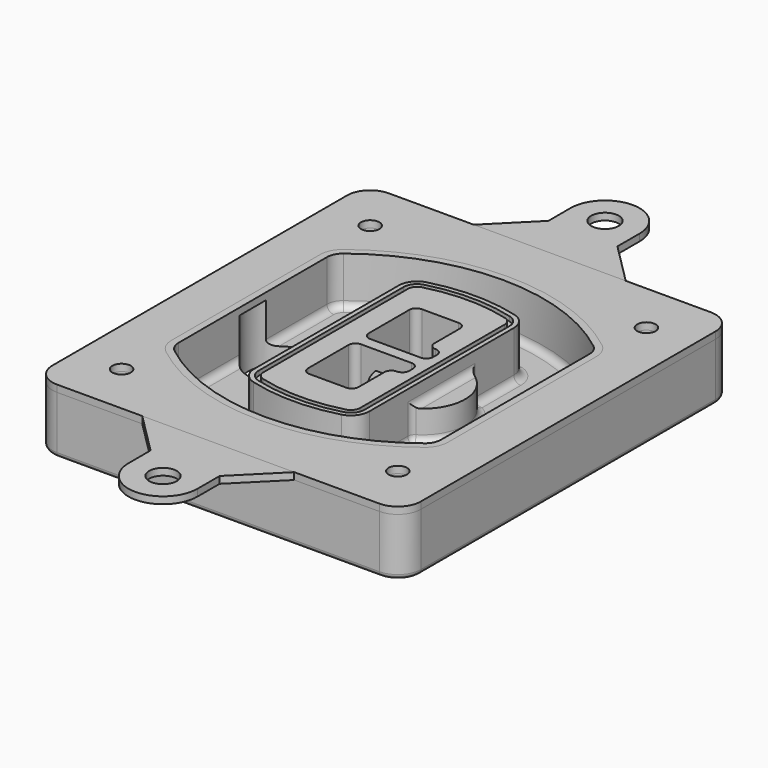
from build123d import *

# Parameters (mm, degrees)
F0_R      = 4
F1_DEPTH  = 25
F2_DEPTH  = 3
F3_DEPTH  = 18
F5_DEPTH  = 21
F6_DEPTH  = 2
F8_DEPTH  = 20
F9_DEPTH  = 16
F10_DEPTH = 25
F7_R      = 6
F7_R_2    = 4
F11_DEPTH = 6
F13_DEPTH = 9
F14_R     = 3
F15_R     = 2
F17_R     = 6
F18_DEPTH = 3
F16_R     = 4


with BuildPart() as f1:
    # F0 (on Top) → F1 (new body)
    with BuildSketch(Plane.XY):
        with BuildLine():
            ThreePointArc((-80, -80), (-77.0710678119, -87.0710678119), (-70, -90))
            Line((-70, -90), (70, -90))
            ThreePointArc((70, -90), (77.0710678119, -87.0710678119), (80, -80))
            Line((80, -80), (80, 80))
            ThreePointArc((80, 80), (77.0710678119, 87.0710678119), (70, 90))
            Line((70, 90), (-70, 90))
            ThreePointArc((-70, 90), (-77.0710678119, 87.0710678119), (-80, 80))
            Line((-80, 80), (-80, -80))
        make_face()
        with Locations((-60, -67.5)):
            Circle(F0_R, mode=Mode.SUBTRACT)
        with Locations((60, -67.5)):
            Circle(F0_R, mode=Mode.SUBTRACT)
        with Locations((-60, 67.5)):
            Circle(F0_R, mode=Mode.SUBTRACT)
        with BuildLine():
            ThreePointArc((-64, 40.2934422872), (-62.5820384798, 46.4328484224), (-58.6153846154, 51.3286200352))
            ThreePointArc((-58.6153846154, 51.3286200352), (0, 71.5), (58.6153846154, 51.3286200352))
            ThreePointArc((58.6153846154, 51.3286200352), (62.5820384798, 46.4328484224), (64, 40.2934422872))
            Line((64, 40.2934422872), (64, -40.2934422872))
            ThreePointArc((64, -40.2934422872), (62.5820384798, -46.4328484224), (58.6153846154, -51.3286200352))
            ThreePointArc((58.6153846154, -51.3286200352), (0, -71.5), (-58.6153846154, -51.3286200352))
            ThreePointArc((-58.6153846154, -51.3286200352), (-62.5820384798, -46.4328484224), (-64, -40.2934422872))
            Line((-64, -40.2934422872), (-64, 40.2934422872))
        make_face(mode=Mode.SUBTRACT)
        with Locations((60, 67.5)):
            Circle(F0_R, mode=Mode.SUBTRACT)
        with BuildLine():
            ThreePointArc((58.6153846154, 51.3286200352), (0, 71.5), (-58.6153846154, 51.3286200352))
            ThreePointArc((-58.6153846154, 51.3286200352), (-62.5820384798, 46.4328484224), (-64, 40.2934422872))
            Line((-64, 40.2934422872), (-64, -40.2934422872))
            ThreePointArc((-64, -40.2934422872), (-62.5820384798, -46.4328484224), (-58.6153846154, -51.3286200352))
            ThreePointArc((-58.6153846154, -51.3286200352), (0, -71.5), (58.6153846154, -51.3286200352))
            ThreePointArc((58.6153846154, -51.3286200352), (62.5820384798, -46.4328484224), (64, -40.2934422872))
            Line((64, -40.2934422872), (64, 40.2934422872))
            ThreePointArc((64, 40.2934422872), (62.5820384798, 46.4328484224), (58.6153846154, 51.3286200352))
        make_face()
        with BuildLine():
            Line((-60, -40.2934422872), (-60, 40.2934422872))
            ThreePointArc((-60, 40.2934422872), (-58.9871703427, 44.6787323838), (-56.1538461538, 48.1757121072))
            ThreePointArc((-56.1538461538, 48.1757121072), (0, 67.5), (56.1538461538, 48.1757121072))
            ThreePointArc((56.1538461538, 48.1757121072), (58.9871703427, 44.6787323838), (60, 40.2934422872))
            Line((60, 40.2934422872), (60, -40.2934422872))
            ThreePointArc((60, -40.2934422872), (58.9871703427, -44.6787323838), (56.1538461538, -48.1757121072))
            ThreePointArc((56.1538461538, -48.1757121072), (0, -67.5), (-56.1538461538, -48.1757121072))
            ThreePointArc((-56.1538461538, -48.1757121072), (-58.9871703427, -44.6787323838), (-60, -40.2934422872))
        make_face(mode=Mode.SUBTRACT)
        with BuildLine():
            ThreePointArc((-56.1538461538, 48.1757121072), (-58.9871703427, 44.6787323838), (-60, 40.2934422872))
            Line((-60, 40.2934422872), (-60, -40.2934422872))
            ThreePointArc((-60, -40.2934422872), (-58.9871703427, -44.6787323838), (-56.1538461538, -48.1757121072))
            ThreePointArc((-56.1538461538, -48.1757121072), (0, -67.5), (56.1538461538, -48.1757121072))
            ThreePointArc((56.1538461538, -48.1757121072), (58.9871703427, -44.6787323838), (60, -40.2934422872))
            Line((60, -40.2934422872), (60, 40.2934422872))
            ThreePointArc((60, 40.2934422872), (58.9871703427, 44.6787323838), (56.1538461538, 48.1757121072))
            ThreePointArc((56.1538461538, 48.1757121072), (0, 67.5), (-56.1538461538, 48.1757121072))
        make_face()
        with BuildLine():
            ThreePointArc((54.3076923077, 45.8110311612), (56.2910192399, 43.3631453548), (57, 40.2934422872))
            Line((57, 40.2934422872), (57, -40.2934422872))
            ThreePointArc((57, -40.2934422872), (56.2910192399, -43.3631453548), (54.3076923077, -45.8110311612))
            ThreePointArc((54.3076923077, -45.8110311612), (0, -64.5), (-54.3076923077, -45.8110311612))
            ThreePointArc((-54.3076923077, -45.8110311612), (-56.2910192399, -43.3631453548), (-57, -40.2934422872))
            Line((-57, -40.2934422872), (-57, 40.2934422872))
            ThreePointArc((-57, 40.2934422872), (-56.2910192399, 43.3631453548), (-54.3076923077, 45.8110311612))
            ThreePointArc((-54.3076923077, 45.8110311612), (0, 64.5), (54.3076923077, 45.8110311612))
        make_face(mode=Mode.SUBTRACT)
        with BuildLine():
            Line((57, -40.2934422872), (57, 40.2934422872))
            ThreePointArc((57, 40.2934422872), (56.2910192399, 43.3631453548), (54.3076923077, 45.8110311612))
            ThreePointArc((54.3076923077, 45.8110311612), (0, 64.5), (-54.3076923077, 45.8110311612))
            ThreePointArc((-54.3076923077, 45.8110311612), (-56.2910192399, 43.3631453548), (-57, 40.2934422872))
            Line((-57, 40.2934422872), (-57, -40.2934422872))
            ThreePointArc((-57, -40.2934422872), (-56.2910192399, -43.3631453548), (-54.3076923077, -45.8110311612))
            ThreePointArc((-54.3076923077, -45.8110311612), (0, -64.5), (54.3076923077, -45.8110311612))
            ThreePointArc((54.3076923077, -45.8110311612), (56.2910192399, -43.3631453548), (57, -40.2934422872))
        make_face()
    extrude(amount=-F1_DEPTH)

    # F0 (on Top) → F2 (join)
    with BuildSketch(Plane.XY):
        with BuildLine():
            ThreePointArc((-56.1538461538, 48.1757121072), (-58.9871703427, 44.6787323838), (-60, 40.2934422872))
            Line((-60, 40.2934422872), (-60, -40.2934422872))
            ThreePointArc((-60, -40.2934422872), (-58.9871703427, -44.6787323838), (-56.1538461538, -48.1757121072))
            ThreePointArc((-56.1538461538, -48.1757121072), (0, -67.5), (56.1538461538, -48.1757121072))
            ThreePointArc((56.1538461538, -48.1757121072), (58.9871703427, -44.6787323838), (60, -40.2934422872))
            Line((60, -40.2934422872), (60, 40.2934422872))
            ThreePointArc((60, 40.2934422872), (58.9871703427, 44.6787323838), (56.1538461538, 48.1757121072))
            ThreePointArc((56.1538461538, 48.1757121072), (0, 67.5), (-56.1538461538, 48.1757121072))
        make_face()
        with BuildLine():
            ThreePointArc((54.3076923077, 45.8110311612), (56.2910192399, 43.3631453548), (57, 40.2934422872))
            Line((57, 40.2934422872), (57, -40.2934422872))
            ThreePointArc((57, -40.2934422872), (56.2910192399, -43.3631453548), (54.3076923077, -45.8110311612))
            ThreePointArc((54.3076923077, -45.8110311612), (0, -64.5), (-54.3076923077, -45.8110311612))
            ThreePointArc((-54.3076923077, -45.8110311612), (-56.2910192399, -43.3631453548), (-57, -40.2934422872))
            Line((-57, -40.2934422872), (-57, 40.2934422872))
            ThreePointArc((-57, 40.2934422872), (-56.2910192399, 43.3631453548), (-54.3076923077, 45.8110311612))
            ThreePointArc((-54.3076923077, 45.8110311612), (0, 64.5), (54.3076923077, 45.8110311612))
        make_face(mode=Mode.SUBTRACT)
    extrude(amount=F2_DEPTH)

    # F0 (on Top) → F3 (cut)
    with BuildSketch(Plane.XY):
        with BuildLine():
            Line((57, -40.2934422872), (57, 40.2934422872))
            ThreePointArc((57, 40.2934422872), (56.2910192399, 43.3631453548), (54.3076923077, 45.8110311612))
            ThreePointArc((54.3076923077, 45.8110311612), (0, 64.5), (-54.3076923077, 45.8110311612))
            ThreePointArc((-54.3076923077, 45.8110311612), (-56.2910192399, 43.3631453548), (-57, 40.2934422872))
            Line((-57, 40.2934422872), (-57, -40.2934422872))
            ThreePointArc((-57, -40.2934422872), (-56.2910192399, -43.3631453548), (-54.3076923077, -45.8110311612))
            ThreePointArc((-54.3076923077, -45.8110311612), (0, -64.5), (54.3076923077, -45.8110311612))
            ThreePointArc((54.3076923077, -45.8110311612), (56.2910192399, -43.3631453548), (57, -40.2934422872))
        make_face()
    extrude(amount=-F3_DEPTH, mode=Mode.SUBTRACT)

    # F4 (on face) → F5 (join, through all)
    with BuildSketch(Plane.XY.offset(3)):
        with BuildLine():
            ThreePointArc((-25, -39.2465276821), (-23.3511545998, -44.1109737193), (-19.0842911877, -46.9702398883))
            ThreePointArc((-19.0842911877, -46.9702398883), (0, -49.5), (19.0842911877, -46.9702398883))
            ThreePointArc((19.0842911877, -46.9702398883), (23.3511545998, -44.1109737193), (25, -39.2465276821))
            Line((25, -39.2465276821), (25, 39.2465276821))
            ThreePointArc((25, 39.2465276821), (23.3511545998, 44.1109737193), (19.0842911877, 46.9702398883))
            ThreePointArc((19.0842911877, 46.9702398883), (0, 49.5), (-19.0842911877, 46.9702398883))
            ThreePointArc((-19.0842911877, 46.9702398883), (-23.3511545998, 44.1109737193), (-25, 39.2465276821))
            Line((-25, 39.2465276821), (-25, -39.2465276821))
        make_face()
        with BuildLine():
            ThreePointArc((18.5632183908, 45.0393118368), (21.7633659499, 42.89486221), (23, 39.2465276821))
            Line((23, 39.2465276821), (23, -39.2465276821))
            ThreePointArc((23, -39.2465276821), (21.7633659499, -42.89486221), (18.5632183908, -45.0393118368))
            ThreePointArc((18.5632183908, -45.0393118368), (0, -47.5), (-18.5632183908, -45.0393118368))
            ThreePointArc((-18.5632183908, -45.0393118368), (-21.7633659499, -42.89486221), (-23, -39.2465276821))
            Line((-23, -39.2465276821), (-23, 39.2465276821))
            ThreePointArc((-23, 39.2465276821), (-21.7633659499, 42.89486221), (-18.5632183908, 45.0393118368))
            ThreePointArc((-18.5632183908, 45.0393118368), (0, 47.5), (18.5632183908, 45.0393118368))
        make_face(mode=Mode.SUBTRACT)
        with BuildLine():
            Line((23, -39.2465276821), (23, 39.2465276821))
            ThreePointArc((23, 39.2465276821), (21.7633659499, 42.89486221), (18.5632183908, 45.0393118368))
            ThreePointArc((18.5632183908, 45.0393118368), (0, 47.5), (-18.5632183908, 45.0393118368))
            ThreePointArc((-18.5632183908, 45.0393118368), (-21.7633659499, 42.89486221), (-23, 39.2465276821))
            Line((-23, 39.2465276821), (-23, -39.2465276821))
            ThreePointArc((-23, -39.2465276821), (-21.7633659499, -42.89486221), (-18.5632183908, -45.0393118368))
            ThreePointArc((-18.5632183908, -45.0393118368), (0, -47.5), (18.5632183908, -45.0393118368))
            ThreePointArc((18.5632183908, -45.0393118368), (21.7633659499, -42.89486221), (23, -39.2465276821))
        make_face()
        with BuildLine():
            ThreePointArc((18.0421455939, 43.1083837852), (20.1755772999, 41.6787507007), (21, 39.2465276821))
            Line((21, 39.2465276821), (21, -39.2465276821))
            ThreePointArc((21, -39.2465276821), (20.1755772999, -41.6787507007), (18.0421455939, -43.1083837852))
            ThreePointArc((18.0421455939, -43.1083837852), (0, -45.5), (-18.0421455939, -43.1083837852))
            ThreePointArc((-18.0421455939, -43.1083837852), (-20.1755772999, -41.6787507007), (-21, -39.2465276821))
            Line((-21, -39.2465276821), (-21, 39.2465276821))
            ThreePointArc((-21, 39.2465276821), (-20.1755772999, 41.6787507007), (-18.0421455939, 43.1083837852))
            ThreePointArc((-18.0421455939, 43.1083837852), (0, 45.5), (18.0421455939, 43.1083837852))
        make_face(mode=Mode.SUBTRACT)
        with BuildLine():
            Line((21, -39.2465276821), (21, 39.2465276821))
            ThreePointArc((21, 39.2465276821), (20.1755772999, 41.6787507007), (18.0421455939, 43.1083837852))
            ThreePointArc((18.0421455939, 43.1083837852), (0, 45.5), (-18.0421455939, 43.1083837852))
            ThreePointArc((-18.0421455939, 43.1083837852), (-20.1755772999, 41.6787507007), (-21, 39.2465276821))
            Line((-21, 39.2465276821), (-21, -39.2465276821))
            ThreePointArc((-21, -39.2465276821), (-20.1755772999, -41.6787507007), (-18.0421455939, -43.1083837852))
            ThreePointArc((-18.0421455939, -43.1083837852), (0, -45.5), (18.0421455939, -43.1083837852))
            ThreePointArc((18.0421455939, -43.1083837852), (20.1755772999, -41.6787507007), (21, -39.2465276821))
        make_face()
        with BuildLine():
            Line((-8, -2.5), (14, -2.5))
            ThreePointArc((14, -2.5), (16.1213203436, -3.3786796564), (17, -5.5))
            Line((17, -5.5), (17, -7.5))
            ThreePointArc((17, -7.5), (16.1213203436, -9.6213203436), (14, -10.5))
            ThreePointArc((14, -10.5), (11.8786796564, -11.3786796564), (11, -13.5))
            Line((11, -13.5), (11, -27.5))
            ThreePointArc((11, -27.5), (10.1213203436, -29.6213203436), (8, -30.5))
            Line((8, -30.5), (-8, -30.5))
            ThreePointArc((-8, -30.5), (-10.1213203436, -29.6213203436), (-11, -27.5))
            Line((-11, -27.5), (-11, -5.5))
            ThreePointArc((-11, -5.5), (-10.1213203436, -3.3786796564), (-8, -2.5))
        make_face(mode=Mode.SUBTRACT)
        with BuildLine():
            ThreePointArc((-8, 2.5), (-10.1213203436, 3.3786796564), (-11, 5.5))
            Line((-11, 5.5), (-11, 27.5))
            ThreePointArc((-11, 27.5), (-10.1213203436, 29.6213203436), (-8, 30.5))
            Line((-8, 30.5), (8, 30.5))
            ThreePointArc((8, 30.5), (10.1213203436, 29.6213203436), (11, 27.5))
            Line((11, 27.5), (11, 13.5))
            ThreePointArc((11, 13.5), (11.8786796564, 11.3786796564), (14, 10.5))
            ThreePointArc((14, 10.5), (16.1213203436, 9.6213203436), (17, 7.5))
            Line((17, 7.5), (17, 5.5))
            ThreePointArc((17, 5.5), (16.1213203436, 3.3786796564), (14, 2.5))
            Line((14, 2.5), (-8, 2.5))
        make_face(mode=Mode.SUBTRACT)
    extrude(amount=-F5_DEPTH)

    # F4 (on face) → F6 (cut)
    with BuildSketch(Plane.XY.offset(3)):
        with BuildLine():
            Line((23, -39.2465276821), (23, 39.2465276821))
            ThreePointArc((23, 39.2465276821), (21.7633659499, 42.89486221), (18.5632183908, 45.0393118368))
            ThreePointArc((18.5632183908, 45.0393118368), (0, 47.5), (-18.5632183908, 45.0393118368))
            ThreePointArc((-18.5632183908, 45.0393118368), (-21.7633659499, 42.89486221), (-23, 39.2465276821))
            Line((-23, 39.2465276821), (-23, -39.2465276821))
            ThreePointArc((-23, -39.2465276821), (-21.7633659499, -42.89486221), (-18.5632183908, -45.0393118368))
            ThreePointArc((-18.5632183908, -45.0393118368), (0, -47.5), (18.5632183908, -45.0393118368))
            ThreePointArc((18.5632183908, -45.0393118368), (21.7633659499, -42.89486221), (23, -39.2465276821))
        make_face()
        with BuildLine():
            ThreePointArc((18.0421455939, 43.1083837852), (20.1755772999, 41.6787507007), (21, 39.2465276821))
            Line((21, 39.2465276821), (21, -39.2465276821))
            ThreePointArc((21, -39.2465276821), (20.1755772999, -41.6787507007), (18.0421455939, -43.1083837852))
            ThreePointArc((18.0421455939, -43.1083837852), (0, -45.5), (-18.0421455939, -43.1083837852))
            ThreePointArc((-18.0421455939, -43.1083837852), (-20.1755772999, -41.6787507007), (-21, -39.2465276821))
            Line((-21, -39.2465276821), (-21, 39.2465276821))
            ThreePointArc((-21, 39.2465276821), (-20.1755772999, 41.6787507007), (-18.0421455939, 43.1083837852))
            ThreePointArc((-18.0421455939, 43.1083837852), (0, 45.5), (18.0421455939, 43.1083837852))
        make_face(mode=Mode.SUBTRACT)
    extrude(amount=-F6_DEPTH, mode=Mode.SUBTRACT)

    # F7 (on face) → F8 (join)
    with BuildSketch(Plane(origin=(0, 0, -25), x_dir=(1, 0, 0), z_dir=(0, 0, -1))):
        with BuildLine():
            ThreePointArc((3.28842436, 0), (16.7567035675, 13.4682792075), (30.224982775, 0))
            Line((30.224982775, 0), (35.224982775, 0))
            ThreePointArc((35.224982775, 0), (16.7567035675, 18.4682792075), (-1.71157564, 0))
            Line((-1.71157564, 0), (3.28842436, 0))
        make_face()
        with BuildLine():
            Line((3.28842436, 0), (30.224982775, 0))
            ThreePointArc((30.224982775, 0), (16.7567035675, 13.4682792075), (3.28842436, 0))
        make_face()
        with BuildLine():
            ThreePointArc((3.28842436, 0), (16.7567035675, -13.4682792075), (30.224982775, 0))
            Line((30.224982775, 0), (3.28842436, 0))
        make_face()
        with BuildLine():
            Line((35.224982775, 0), (30.224982775, 0))
            ThreePointArc((30.224982775, 0), (16.7567035675, -13.4682792075), (3.28842436, 0))
            Line((3.28842436, 0), (-1.71157564, 0))
            ThreePointArc((-1.71157564, 0), (16.7567035675, -18.4682792075), (35.224982775, 0))
        make_face()
    extrude(amount=-F8_DEPTH)

    # F7 (on face) → F9 (cut)
    with BuildSketch(Plane(origin=(0, 0, -25), x_dir=(1, 0, 0), z_dir=(0, 0, -1))):
        with BuildLine():
            Line((3.28842436, 0), (30.224982775, 0))
            ThreePointArc((30.224982775, 0), (16.7567035675, 13.4682792075), (3.28842436, 0))
        make_face()
        with BuildLine():
            ThreePointArc((3.28842436, 0), (16.7567035675, -13.4682792075), (30.224982775, 0))
            Line((30.224982775, 0), (3.28842436, 0))
        make_face()
    extrude(amount=-F9_DEPTH, mode=Mode.SUBTRACT)

    # F7 (on face) → F10 (cut)
    with BuildSketch(Plane(origin=(0, 0, -25), x_dir=(1, 0, 0), z_dir=(0, 0, -1))):
        with BuildLine():
            Line((-59.0318229325, 0), (-32.0952645175, 0))
            ThreePointArc((-32.0952645175, 0), (-45.563543725, 13.4682792075), (-59.0318229325, 0))
        make_face()
        with BuildLine():
            ThreePointArc((-59.0318229325, 0), (-45.563543725, -13.4682792075), (-32.0952645175, 0))
            Line((-32.0952645175, 0), (-59.0318229325, 0))
        make_face()
    extrude(amount=-F10_DEPTH, mode=Mode.SUBTRACT)

    # F7 (on face) → F11 (cut)
    with BuildSketch(Plane(origin=(0, 0, -25), x_dir=(1, 0, 0), z_dir=(0, 0, -1))):
        with Locations((60, -67.5)):
            Circle(F7_R)
        with Locations((60, -67.5)):
            Circle(F7_R_2, mode=Mode.SUBTRACT)
        with Locations((60, -67.5)):
            Circle(F7_R)
        with Locations((60, -67.5)):
            Circle(F7_R_2, mode=Mode.SUBTRACT)
        with Locations((-60, -67.5)):
            Circle(F7_R)
        with Locations((-60, -67.5)):
            Circle(F7_R_2, mode=Mode.SUBTRACT)
        with Locations((-60, -67.5)):
            Circle(F7_R)
        with Locations((-60, -67.5)):
            Circle(F7_R_2, mode=Mode.SUBTRACT)
        with Locations((-60, 67.5)):
            Circle(F7_R)
        with Locations((-60, 67.5)):
            Circle(F7_R_2, mode=Mode.SUBTRACT)
        with Locations((-60, 67.5)):
            Circle(F7_R)
        with Locations((-60, 67.5)):
            Circle(F7_R_2, mode=Mode.SUBTRACT)
        with Locations((60, 67.5)):
            Circle(F7_R)
        with Locations((60, 67.5)):
            Circle(F7_R_2, mode=Mode.SUBTRACT)
        with Locations((60, 67.5)):
            Circle(F7_R)
        with Locations((60, 67.5)):
            Circle(F7_R_2, mode=Mode.SUBTRACT)
    extrude(amount=-F11_DEPTH, mode=Mode.SUBTRACT)

    # F12 (on face) → F13 (cut, through all)
    with BuildSketch(Plane(origin=(0, 0, -9), x_dir=(1, 0, 0), z_dir=(0, 0, -1))):
        with BuildLine():
            Line((11, 13.5), (11, 17.5481537753))
            ThreePointArc((11, 17.5481537753), (2.5696536419, 11.8239143813), (-1.5415842455, 2.5))
            Line((-1.5415842455, 2.5), (3.5224848595, 2.5))
            ThreePointArc((3.5224848595, 2.5), (6.1857188154, 8.3455872281), (11.2536447004, 12.2927168648))
            ThreePointArc((11.2536447004, 12.2927168648), (11.0640958889, 12.8831798879), (11, 13.5))
        make_face()
        with BuildLine():
            ThreePointArc((11.2536447004, -12.2927168648), (6.1857188154, -8.3455872281), (3.5224848595, -2.5))
            Line((3.5224848595, -2.5), (-1.5415842455, -2.5))
            ThreePointArc((-1.5415842455, -2.5), (2.5696536419, -11.8239143813), (11, -17.5481537753))
            Line((11, -17.5481537753), (11, -13.5))
            ThreePointArc((11, -13.5), (11.0640958889, -12.8831798879), (11.2536447004, -12.2927168648))
        make_face()
        with BuildLine():
            ThreePointArc((11.2536447004, 12.2927168648), (6.1857188154, 8.3455872281), (3.5224848595, 2.5))
            Line((3.5224848595, 2.5), (14, 2.5))
            ThreePointArc((14, 2.5), (16.1213203436, 3.3786796564), (17, 5.5))
            Line((17, 5.5), (17, 7.5))
            ThreePointArc((17, 7.5), (16.1213203436, 9.6213203436), (14, 10.5))
            ThreePointArc((14, 10.5), (12.3601599782, 10.9878446101), (11.2536447004, 12.2927168648))
        make_face()
        with BuildLine():
            Line((14, -2.5), (3.5224848595, -2.5))
            ThreePointArc((3.5224848595, -2.5), (6.1857188154, -8.3455872281), (11.2536447004, -12.2927168648))
            ThreePointArc((11.2536447004, -12.2927168648), (12.3601599782, -10.9878446101), (14, -10.5))
            ThreePointArc((14, -10.5), (16.1213203436, -9.6213203436), (17, -7.5))
            Line((17, -7.5), (17, -5.5))
            ThreePointArc((17, -5.5), (16.1213203436, -3.3786796564), (14, -2.5))
        make_face()
    extrude(amount=F13_DEPTH, mode=Mode.SUBTRACT)

    # F14
    f14_edges = [f1.edges().sort_by_distance(p)[0] for p in [
        (-57, -23.703476, -18),
        (-57, 23.703476, -18),
        (25, 0, -5),
        (25, 16.526506, -11.5),
        (25, -16.526506, -11.5),
        (25, -27.886517, -18),
        (35.224983, 0, -18),
    ]]
    fillet(f14_edges, radius=F14_R)

    # F15
    f15_edges = [f1.edges().sort_by_distance(p)[0] for p in [
        (0, -90, -25),
    ]]
    fillet(f15_edges, radius=F15_R)


with BuildPart() as f18:
    # F17 (on face) → F18 (new body, through all)
    with BuildSketch(Plane.XY):
        with BuildLine():
            Line((-33, 90), (33, 90))
            Line((33, 90), (15, 108))
            Line((15, 108), (15, 120))
            ThreePointArc((15, 120), (0, 135), (-15, 120))
            Line((-15, 120), (-15, 108))
            Line((-15, 108), (-33, 90))
        make_face()
        with Locations((0, 120)):
            Circle(F17_R, mode=Mode.SUBTRACT)
    extrude(amount=F18_DEPTH)


with BuildPart() as f18b:
    # F17 (on face) → F18, piece 2 (new body, through all)
    with BuildSketch(Plane.XY):
        with BuildLine():
            Line((15, -108), (33, -90))
            Line((33, -90), (-33, -90))
            Line((-33, -90), (-15, -108))
            Line((-15, -108), (-15, -120))
            ThreePointArc((-15, -120), (0, -135), (15, -120))
            Line((15, -120), (15, -108))
        make_face()
        with Locations((0, -120)):
            Circle(F17_R, mode=Mode.SUBTRACT)
    extrude(amount=F18_DEPTH)


with BuildPart() as f18c:
    # F16 (on face) → F18, piece 3 (new body, through all)
    with BuildSketch(Plane.XY):
        with BuildLine():
            Line((-80, 80), (-80, -80))
            ThreePointArc((-80, -80), (-77.0710678119, -87.0710678119), (-70, -90))
            Line((-70, -90), (70, -90))
            ThreePointArc((70, -90), (77.0710678119, -87.0710678119), (80, -80))
            Line((80, -80), (80, 80))
            ThreePointArc((80, 80), (77.0710678119, 87.0710678119), (70, 90))
            Line((70, 90), (-70, 90))
            ThreePointArc((-70, 90), (-77.0710678119, 87.0710678119), (-80, 80))
        make_face()
        with Locations((-60, -67.5)):
            Circle(F16_R, mode=Mode.SUBTRACT)
        with Locations((60, -67.5)):
            Circle(F16_R, mode=Mode.SUBTRACT)
        with Locations((-60, 67.5)):
            Circle(F16_R, mode=Mode.SUBTRACT)
        with BuildLine():
            ThreePointArc((-60, 40.2934422872), (-58.9871703427, 44.6787323838), (-56.1538461538, 48.1757121072))
            ThreePointArc((-56.1538461538, 48.1757121072), (0, 67.5), (56.1538461538, 48.1757121072))
            ThreePointArc((56.1538461538, 48.1757121072), (58.9871703427, 44.6787323838), (60, 40.2934422872))
            Line((60, 40.2934422872), (60, -40.2934422872))
            ThreePointArc((60, -40.2934422872), (58.9871703427, -44.6787323838), (56.1538461538, -48.1757121072))
            ThreePointArc((56.1538461538, -48.1757121072), (0, -67.5), (-56.1538461538, -48.1757121072))
            ThreePointArc((-56.1538461538, -48.1757121072), (-58.9871703427, -44.6787323838), (-60, -40.2934422872))
            Line((-60, -40.2934422872), (-60, 40.2934422872))
        make_face(mode=Mode.SUBTRACT)
        with Locations((60, 67.5)):
            Circle(F16_R, mode=Mode.SUBTRACT)
    extrude(amount=F18_DEPTH)


solid = Compound([f1.part, f18.part, f18b.part, f18c.part])
